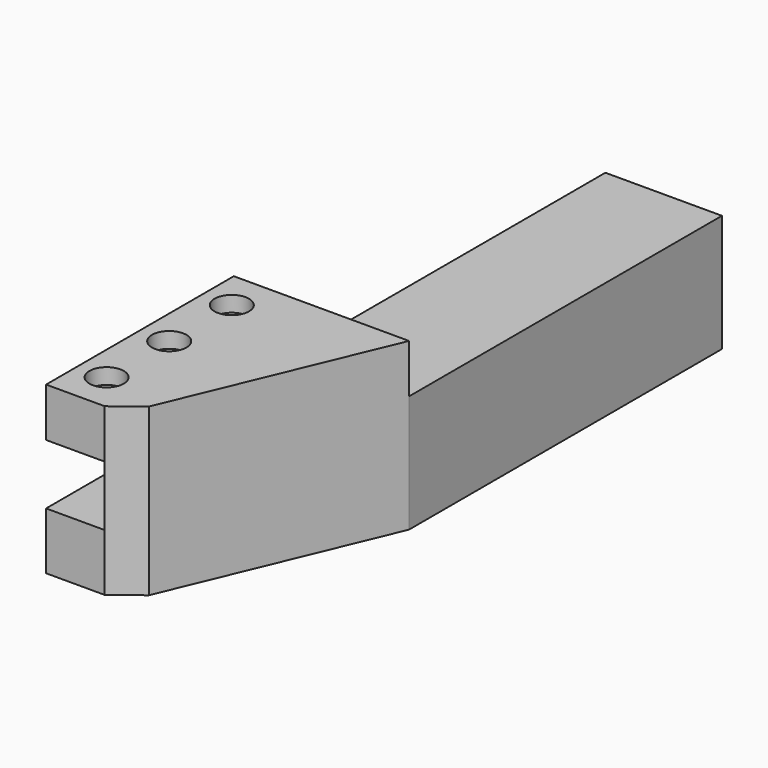
from build123d import *

# Parameters (mm, degrees)
F1_DEPTH = 26.9748
F2_W     = 38.1
F2_H     = 9.779
F3_DEPTH = 9.525
F4_W     = 18.923
F4_H     = 19.05
F5_DEPTH = 63.5
F6_R     = 2.794
F7_DEPTH = 2.54


with BuildPart() as f1:
    # F0 (on Top) → F1 (new body)
    with BuildSketch(Plane.XY):
        Polygon((0, 38.1), (0, 0), (9.525, 0), (13.945783, 3.417956), (28.448, 38.1), align=None)
    extrude(amount=F1_DEPTH)

    # F2 (on face) → F3 (cut)
    with BuildSketch(Plane(origin=(0, 0, 0), x_dir=(0, -1, 0), z_dir=(-1, 0, 0))):
        with Locations((-19.05, 14.1605)):
            Rectangle(F2_W, F2_H)
    extrude(amount=-F3_DEPTH, mode=Mode.SUBTRACT)

    # F4 (on face) → F5 (join)
    with BuildSketch(Plane(origin=(0, 38.1, 0), x_dir=(-1, 0, 0), z_dir=(0, 1, 0))):
        with Locations((-18.9865, 9.525)):
            Rectangle(F4_W, F4_H)
    extrude(amount=F5_DEPTH)

    # F6 (on face) → F7 (cut)
    with BuildSketch(Plane.XY.offset(26.9748)):
        with Locations((4.7498, 31.75)):
            Circle(F6_R)
        with Locations((4.7498, 19.05)):
            Circle(F6_R)
        with Locations((4.7498, 6.35)):
            Circle(F6_R)
    extrude(amount=-F7_DEPTH, mode=Mode.SUBTRACT)


solid = f1.part
